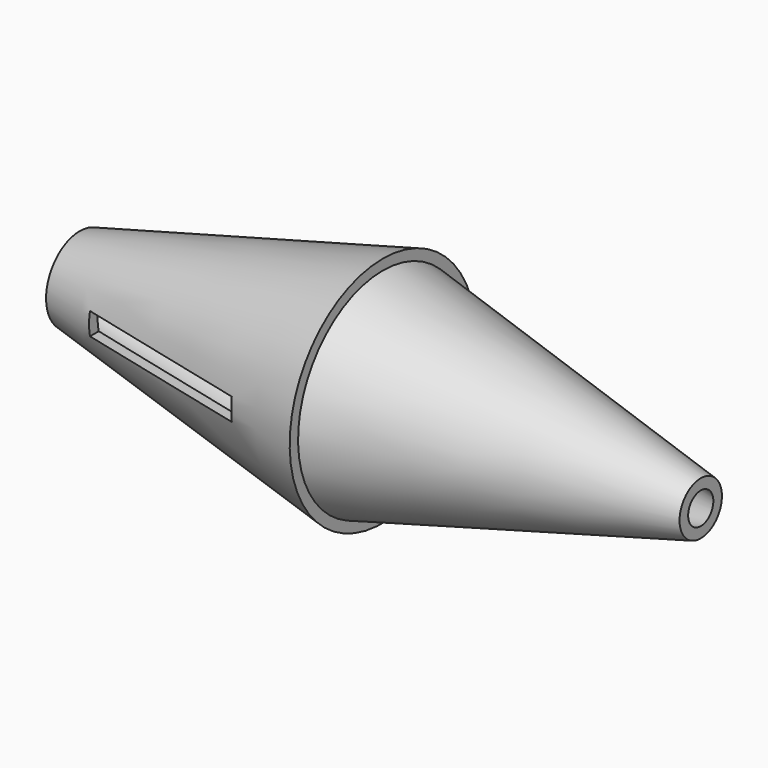
from build123d import *

# Parameters (mm, degrees)
F2_T          = -2.5
F5_T          = -2.5
F6_W          = 42.4038469791
F6_H          = 5.3509618156
F7_DEPTH      = 25
F7_DEPTH_BACK = 25


with BuildPart() as f1:
    # F0 (on Front) → F1 (revolve)
    with BuildSketch(Plane.XZ):
        Polygon((0, 0), (76.2, 0), (76.2, 6.35), (0, 25.4), align=None)
    revolve(axis=Axis((38.1, 0, 0), (1, 0, 0)))

    # F2
    f2_openings = [f1.faces().sort_by_distance(p)[0] for p in [
        (0, 0, 0),
        (76.2, 0, 0),
    ]]
    offset(amount=F2_T, openings=f2_openings)


with BuildPart() as f4:
    # F3 (on Front) → F4 (revolve)
    with BuildSketch(Plane.XZ):
        Polygon((0, 0), (0, 27.9117356986), (-72.6445764303, 10.0994696841), (-72.6445764303, 0), align=None)
    revolve(axis=Axis((-36.3222882152, 0, 0), (1, 0, 0)))

    # F5
    f5_openings = [f4.faces().sort_by_distance(p)[0] for p in [
        (-72.644576, 0, 0),
        (0, 0, 0),
    ]]
    offset(amount=F5_T, openings=f5_openings)

    # F6 (on Front) → F7 (cut, two sides)
    with BuildSketch(Plane.XZ) as f7_sk:
        with Locations((-38.62356022, 0)):
            Rectangle(F6_W, F6_H)
    extrude(amount=-F7_DEPTH, mode=Mode.SUBTRACT)
    extrude(f7_sk.sketch, amount=F7_DEPTH_BACK, mode=Mode.SUBTRACT)


solid = Compound([f1.part, f4.part])
